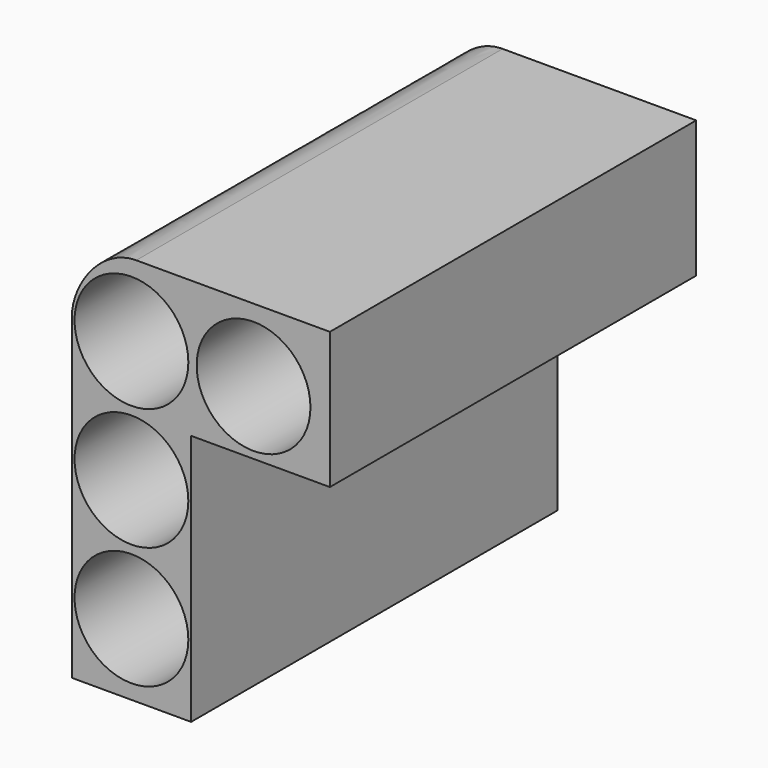
from build123d import *

# Parameters (mm, degrees)
F0_R     = 20.5
F1_DEPTH = 165


with BuildPart() as f1:
    # F0 (on Front) → F1 (new body)
    with BuildSketch(Plane.XZ):
        with BuildLine():
            Line((-81.255392, -55.654403), (-59.755392, -55.654403))
            Line((-59.755392, -55.654403), (-38.255392, -55.654403))
            Line((-38.255392, -55.654403), (-38.255392, 35.098321))
            Line((-38.255392, 35.098321), (11.744608, 35.098321))
            Line((11.744608, 35.098321), (11.744608, 84.345597))
            Line((11.744608, 84.345597), (-58.023451, 84.345597))
            add(Edge.make_bspline(
                [(-81.255392, 58.68857), (-81.255392, 69.632433), (-70.832212, 84.345597), (-58.023451, 84.345597)],
                knots=[0, 0, 0, 0, 34.612225, 34.612225, 34.612225, 34.612225], degree=3))
            Line((-81.255392, 58.68857), (-81.255392, -55.654403))
        make_face()
        with Locations((-59.755392, -29.901679)):
            Circle(F0_R, mode=Mode.SUBTRACT)
        with Locations((-59.755392, 14.098321)):
            Circle(F0_R, mode=Mode.SUBTRACT)
        with Locations((-59.755392, 58.098321)):
            Circle(F0_R, mode=Mode.SUBTRACT)
        with Locations((-15.755392, 58.098321)):
            Circle(F0_R, mode=Mode.SUBTRACT)
    extrude(amount=F1_DEPTH)


solid = f1.part
